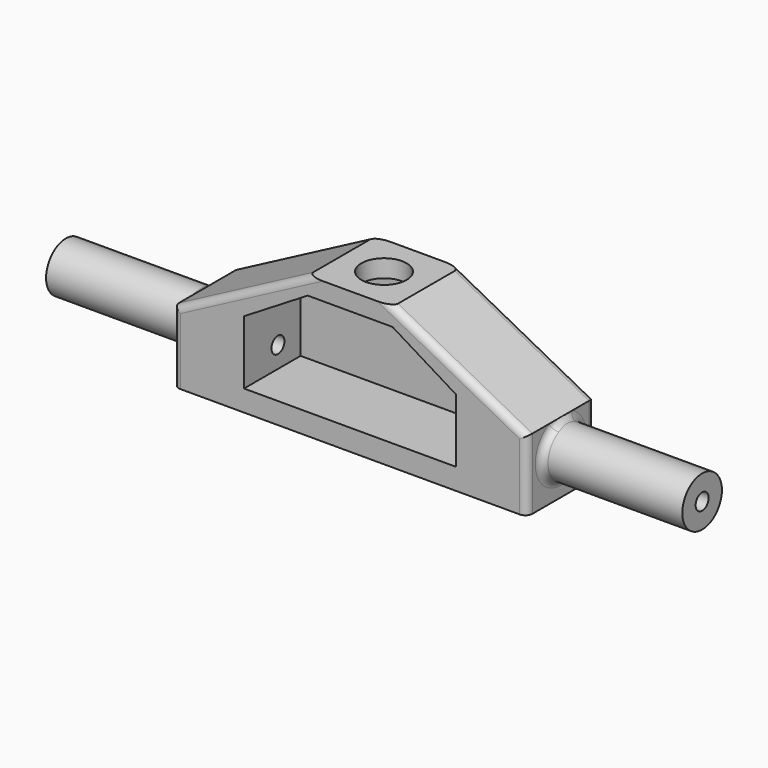
from build123d import *

# Parameters (mm, degrees)
SKETCH_W        = 50
SKETCH_H        = 12
PAD_DEPTH       = 20
POCKET_DEPTH    = 20
POCKET001_DEPTH = 10
SKETCH003_R     = 3.2
POCKET002_DEPTH = 5
SKETCH004_R     = 3.5
PAD001_DEPTH    = 20
SKETCH005_R     = 3.5
PAD002_DEPTH    = 20
FILLET_R        = 1
SKETCH006_R     = 1.15
POCKET003_DEPTH = 200
FILLET001_R     = 1


with BuildPart() as part:
    # Sketch → Pad (new body)
    with BuildSketch(Plane.XY):
        Rectangle(SKETCH_W, SKETCH_H)
    extrude(amount=PAD_DEPTH)

    # Sketch001 (on Face3 of Pad) → Pocket (cut)
    with BuildSketch(Plane.XZ.offset(6)):
        Polygon((-25, 30), (-25, 10), (-6, 20), (6, 20), (25, 10), (25, 30), align=None)
    extrude(amount=-POCKET_DEPTH, mode=Mode.SUBTRACT)

    # Sketch002 (on Face8 of Pocket) → Pocket001 (cut)
    with BuildSketch(Plane.XZ.offset(6)):
        Polygon((-15, 12), (-15, 3), (15, 3), (15, 12), (6, 17.5), (-6, 17.5), align=None)
    extrude(amount=-POCKET001_DEPTH, mode=Mode.SUBTRACT)

    # Sketch003 (on Face5 of Pocket001) → Pocket002 (cut)
    with BuildSketch(Plane.XY.offset(20)):
        Circle(SKETCH003_R)
    extrude(amount=-POCKET002_DEPTH, mode=Mode.SUBTRACT)

    # Sketch004 (on Face7 of Pocket002) → Pad001 (join)
    with BuildSketch(Plane(origin=(-25, 0, 0), x_dir=(0, -1, 0), z_dir=(-1, 0, 0))):
        with Locations((0, 6)):
            Circle(SKETCH004_R)
    extrude(amount=PAD001_DEPTH)

    # Sketch005 (on Face3 of Pad001) → Pad002 (join)
    with BuildSketch(Plane.YZ.offset(25)):
        with Locations((0, 6)):
            Circle(SKETCH005_R)
    extrude(amount=PAD002_DEPTH)

    # Fillet
    fillet_edges = [part.edges().sort_by_distance(p)[0] for p in [
        (25, -3.5, 6),
        (-25, 3.5, 6),
    ]]
    fillet(fillet_edges, radius=FILLET_R)

    # Sketch006 (on Face26 of Fillet) → Pocket003 (cut)
    with BuildSketch(Plane(origin=(-45, 0, 0), x_dir=(0, -1, 0), z_dir=(-1, 0, 0))):
        with Locations((0, 6)):
            Circle(SKETCH006_R)
    extrude(amount=-POCKET003_DEPTH, mode=Mode.SUBTRACT)

    # Fillet001
    fillet001_edges = [part.edges().sort_by_distance(p)[0] for p in [
        (-15.5, -6, 15),
        (-25, -6, 5),
        (-25, 6, 5),
        (-15.5, 6, 15),
        (15.5, -6, 15),
        (15.5, 6, 15),
        (25, -6, 5),
        (25, 6, 5),
    ]]
    fillet(fillet001_edges, radius=FILLET001_R)


solid = part.part
